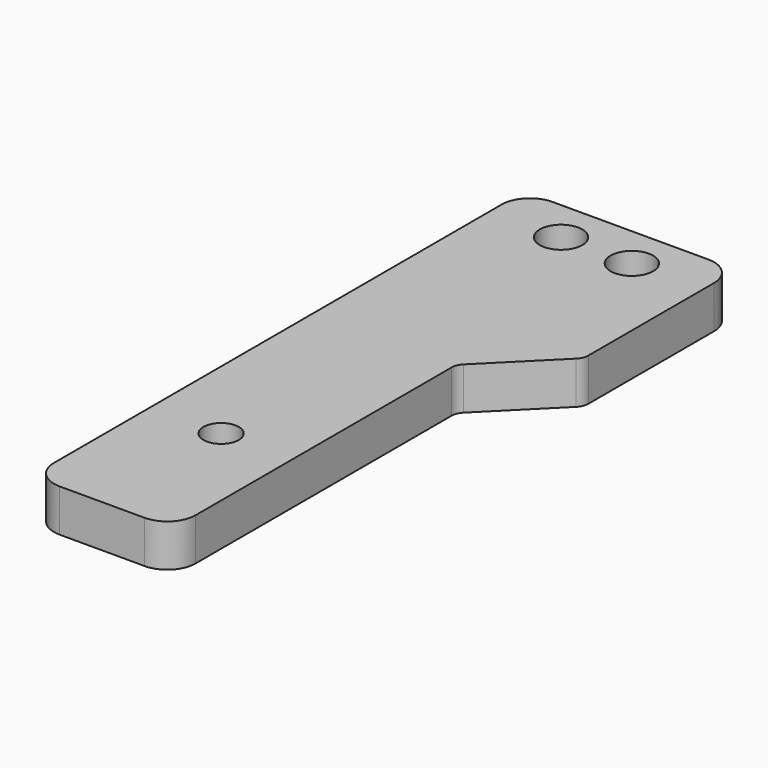
from build123d import *

# Parameters (mm, degrees)
SKETCH_R    = 1.5
SKETCH_R_2  = 1.25
PAD_DEPTH   = 3
FILLET_R    = 2
FILLET001_R = 1


with BuildPart() as part:
    # Sketch → Pad (new body)
    with BuildSketch(Plane.XY):
        Polygon((-5, -40.5), (-5, 3), (10, 3), (10, -10.5), (5, -15.5), (5, -40.5), align=None)
        Circle(SKETCH_R, mode=Mode.SUBTRACT)
        with Locations((5, 0)):
            Circle(SKETCH_R, mode=Mode.SUBTRACT)
        with Locations((0, -30)):
            Circle(SKETCH_R_2, mode=Mode.SUBTRACT)
    extrude(amount=PAD_DEPTH)

    # Fillet
    fillet_edges = [part.edges().sort_by_distance(p)[0] for p in [
        (10, 3, 1.5),
        (-5, 3, 1.5),
        (-5, -40.5, 1.5),
        (5, -40.5, 1.5),
    ]]
    fillet(fillet_edges, radius=FILLET_R)

    # Fillet001
    fillet001_edges = [part.edges().sort_by_distance(p)[0] for p in [
        (10, -10.5, 1.5),
        (5, -15.5, 1.5),
    ]]
    fillet(fillet001_edges, radius=FILLET001_R)


solid = part.part
